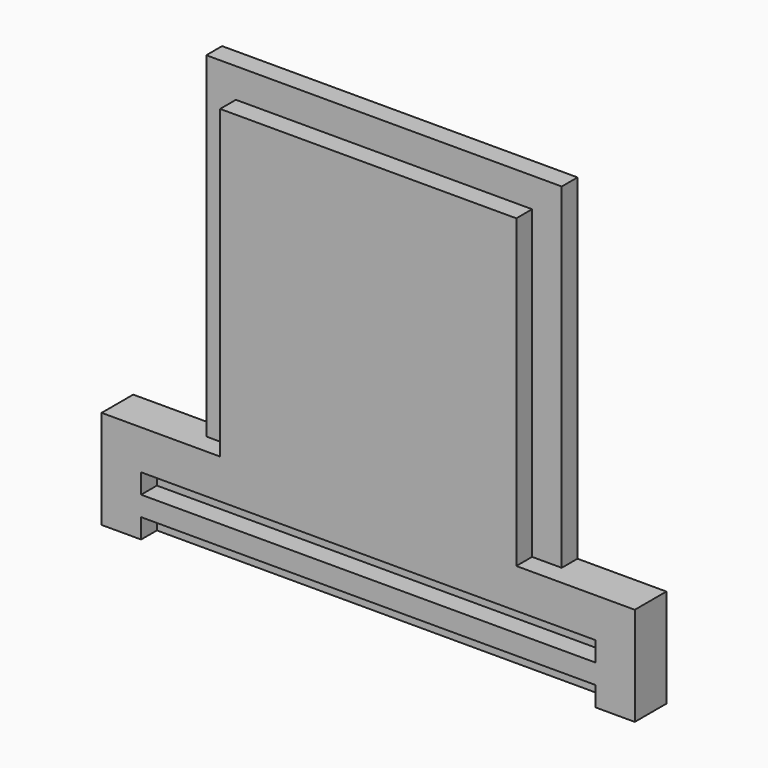
from build123d import *

# Parameters (mm, degrees)
F0_W       = 228.6
F0_H       = 279.4
F1_DEPTH   = 25.4
F2_W       = 19.05
F2_H       = 279.4
F3_DEPTH   = 12.7
F4_W       = 19.05
F4_H       = 279.4
F5_DEPTH   = 12.7
F6_W       = 190.5
F6_H       = 19.05
F7_DEPTH   = 12.7
F8_W       = 12.7
F8_H       = 63.5
F9_DEPTH   = 57.15
F10_W      = 12.7
F10_H      = 63.5
F11_DEPTH  = 57.15
F13_DEPTH  = 12.7
F14_W      = 342.9
F14_H      = 12.7
F15_DEPTH  = 12.7
F16_W      = 25.4
F16_H      = 12.7
F17_W      = 25.4
F17_H      = 12.7
F18_W      = 25.4
F18_H      = 12.7
F19_DEPTH  = 12.7
F19_FACE_W = 12.7
F19_FACE_H = 12.7
F20_DEPTH  = 304.8


with BuildPart() as f1:
    # F0 (on Front) → F1 (new body)
    with BuildSketch(Plane.XZ):
        with Locations((114.3, 139.7)):
            Rectangle(F0_W, F0_H)
    extrude(amount=F1_DEPTH)

    # F2 (on face) → F3 (cut)
    with BuildSketch(Plane.XZ.offset(25.4)):
        with Locations((219.075, 139.7)):
            Rectangle(F2_W, F2_H)
    extrude(amount=-F3_DEPTH, mode=Mode.SUBTRACT)

    # F4 (on face) → F5 (cut)
    with BuildSketch(Plane.XZ.offset(25.4)):
        with Locations((9.525, 139.7)):
            Rectangle(F4_W, F4_H)
    extrude(amount=-F5_DEPTH, mode=Mode.SUBTRACT)

    # F6 (on face) → F7 (cut)
    with BuildSketch(Plane.XZ.offset(25.4)):
        with Locations((114.3, 269.875)):
            Rectangle(F6_W, F6_H)
    extrude(amount=-F7_DEPTH, mode=Mode.SUBTRACT)

    # F8 (on face) → F9 (join)
    with BuildSketch(Plane.YZ.offset(228.6)):
        with Locations((-6.35, 31.75)):
            Rectangle(F8_W, F8_H)
    extrude(amount=F9_DEPTH)

    # F10 (on face) → F11 (join)
    with BuildSketch(Plane(origin=(0, 0, 0), x_dir=(0, -1, 0), z_dir=(-1, 0, 0))):
        with Locations((6.35, 31.75)):
            Rectangle(F10_W, F10_H)
    extrude(amount=F11_DEPTH)

    # F12 (on face) → F13 (join)
    with BuildSketch(Plane.XZ.offset(12.7)):
        Polygon((0, 63.5), (-57.15, 63.5), (-57.15, 0), (19.05, 0), (19.05, 63.5), align=None)
        Polygon((285.75, 63.5), (228.6, 63.5), (209.55, 63.5), (209.55, 0), (285.75, 0), align=None)
    extrude(amount=F13_DEPTH)

    # F14 (on face) → F15 (cut)
    with BuildSketch(Plane.XZ.offset(25.4)):
        Polygon((-57.15, 63.5), (-57.15, 50.8), (285.75, 50.8), (285.75, 63.5), (209.55, 63.5), (19.05, 63.5), align=None)
        with Locations((114.3, 31.75)):
            Rectangle(F14_W, F14_H)
        with Locations((114.3, 6.35)):
            Rectangle(F14_W, F14_H)
    extrude(amount=-F15_DEPTH, mode=Mode.SUBTRACT)

    # F16 (on face) + F17 (on face) + F18 (on face) → F19 (join)
    with BuildSketch(Plane.XZ.offset(12.7)):
        with Locations((-44.45, 57.15)):
            Rectangle(F16_W, F16_H)
        with Locations((273.05, 57.15)):
            Rectangle(F16_W, F16_H)
    with BuildSketch(Plane.XZ.offset(12.7)):
        with Locations((-44.45, 31.75)):
            Rectangle(F17_W, F17_H)
        with Locations((273.05, 31.75)):
            Rectangle(F17_W, F17_H)
    with BuildSketch(Plane.XZ.offset(12.7)):
        with Locations((-44.45, 6.35)):
            Rectangle(F18_W, F18_H)
        with Locations((273.05, 6.35)):
            Rectangle(F18_W, F18_H)
    extrude(amount=F19_DEPTH)

    # F19_face (on face) → F20 (join)
    with BuildSketch(Plane(origin=(-31.75, -19.05, 57.15), x_dir=(0, 1, 0), z_dir=(1, 0, 0))):
        Rectangle(F19_FACE_W, F19_FACE_H)
    extrude(amount=F20_DEPTH)


solid = f1.part
